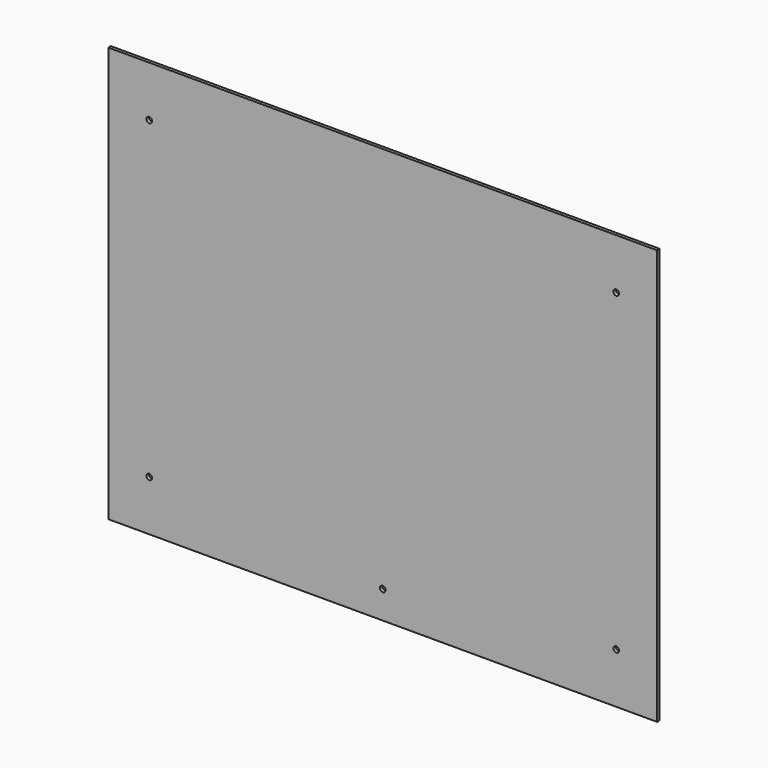
from build123d import *

# Parameters (mm, degrees)
F0_W     = 543.25
F0_H     = 411
F1_DEPTH = 3.175
F2_R     = 2.8
F3_DEPTH = 25


with BuildPart() as f1:
    # F0 (on Front) → F1 (new body)
    with BuildSketch(Plane.XZ):
        Rectangle(F0_W, F0_H)
    extrude(amount=F1_DEPTH)

    # F2 (on face) → F3 (cut)
    with BuildSketch(Plane.XZ.offset(3.175)):
        with Locations((-231.125, 155.5)):
            Circle(F2_R)
        with Locations((-231.125, -155.5)):
            Circle(F2_R)
        with Locations((0, -178)):
            Circle(F2_R)
        with Locations((231.125, -155.5)):
            Circle(F2_R)
        with Locations((231.125, 155.5)):
            Circle(F2_R)
    extrude(amount=-F3_DEPTH, mode=Mode.SUBTRACT)


solid = f1.part
